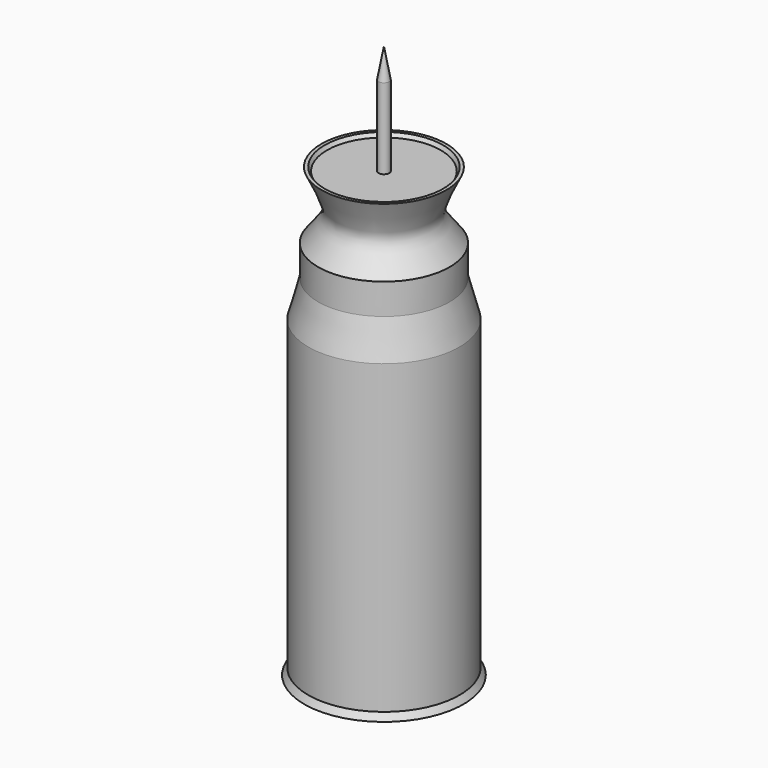
from build123d import *


with BuildPart() as f1:
    # F0 (on Front) → F1 (revolve)
    with BuildSketch(Plane.XZ):
        with BuildLine():
            Line((-42.6955893636, -62.3364038765), (-42.6955893636, 63.4805709124))
            Line((-42.6955893636, 63.4805709124), (-43.9172536135, 56.7558929324))
            Line((-43.9172536135, 56.7558929324), (-43.9172536135, 38.4591419091))
            Line((-43.9172536135, 38.4591419091), (-55.6292720139, 38.4493121774))
            Line((-55.6292720139, 38.4493121774), (-56.1483092606, 39.2998531461))
            Line((-56.1483092606, 39.2998531461), (-56.9005198777, 39.2998531461))
            add(Edge.make_bspline(
                [(-56.9005198777, 39.2998531461), (-55.7006097782, 36.8430891328), (-53.6736517969, 32.7966584836), (-53.3166311127, 29.068726902), (-56.4205440362, 25.9908277668), (-57.6428510249, 24.1230130196)],
                knots=[0, 0, 0, 0, 0.3847393478, 0.6415446163, 1, 1, 1, 1], degree=3))
            Line((-57.6428510249, 24.1230130196), (-57.6428510249, 17.1407088021))
            Line((-57.6428510249, 17.1407088021), (-59.8784275353, 8.8574513176))
            Line((-59.8784275353, 8.8574513176), (-59.8784275353, -60.800164938))
            Line((-59.8784275353, -60.800164938), (-60.7824586332, -62.3364038765))
            Line((-60.7824586332, -62.3364038765), (-60.7765093446, -62.3364038765))
            Line((-60.7765093446, -62.3364038765), (-42.6955893636, -62.3364038765))
        make_face()
    revolve(axis=Axis((-42.6955893636, 0, 0.5720835179), (0, 0, -1)))


solid = f1.part
